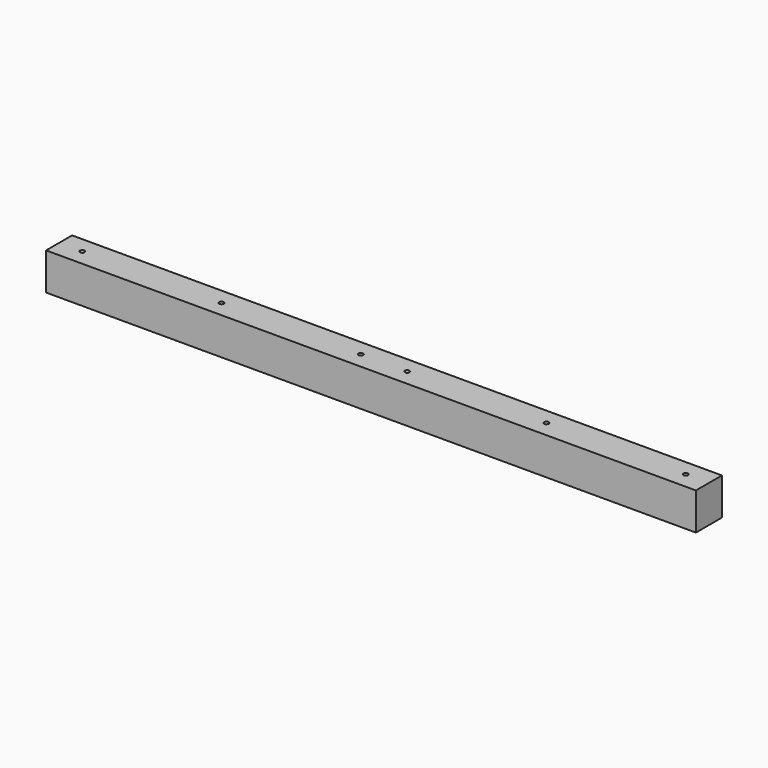
from build123d import *

# Parameters (mm, degrees)
F0_W           = 35
F0_H           = 40
F1_DEPTH       = 700
F3_D           = 5
F3_CSINK_D     = 10
F3_CSINK_ANGLE = 90


with BuildPart() as f1:
    # F0 (on Right) → F1 (new body)
    with BuildSketch(Plane.YZ):
        with Locations((17.5, 27.248142)):
            Rectangle(F0_W, F0_H)
    extrude(amount=F1_DEPTH)

    # F3 (through all)
    with Locations(Plane(origin=(0, 0, 7.248142), x_dir=(1, 0, 0), z_dir=(0, 0, -1))):
        with Locations((25, -17.5), (175, -17.5), (325, -17.5), (375, -17.5), (675, -17.5), (525, -17.5)):
            CounterSinkHole(F3_D / 2, F3_CSINK_D / 2, counter_sink_angle=F3_CSINK_ANGLE)


solid = f1.part
